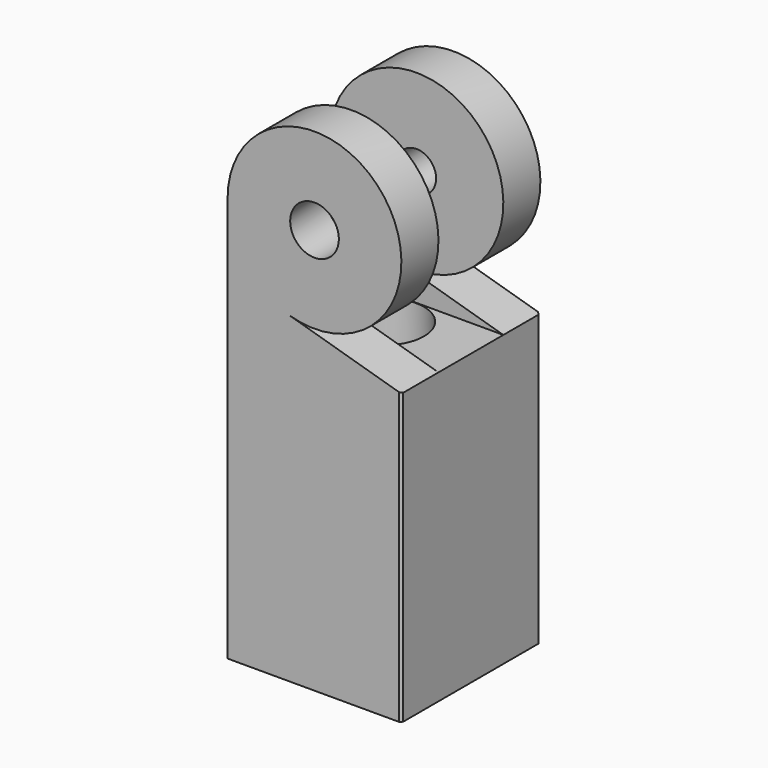
from build123d import *

# Parameters (mm, degrees)
F1_DEPTH       = 25
F3_D           = 3.7
F3_CBORE_D     = 6.9
F3_CBORE_DEPTH = 4
F5_DEPTH       = 4
F7_DEPTH       = 4
F9_D           = 4.2
F9_DEPTH       = 4
F11_D          = 3.4
F11_DEPTH      = 4
F12_SIZE       = 0.2


with BuildPart() as f1:
    # F0 (on Top) → F1 (new body)
    with BuildSketch(Plane.XY):
        Polygon((7.5, -7.5), (7.5, 0), (7.5, 7.5), (-7.5, 7.5), (-7.5, -7.5), align=None)
    extrude(amount=F1_DEPTH)

    # F3 (through all)
    with Locations(Plane.XY.offset(25)):
        with Locations((0, 0)):
            CounterBoreHole(F3_D / 2, F3_CBORE_D / 2, F3_CBORE_DEPTH)

    # F4 (on face) → F5 (join)
    with BuildSketch(Plane(origin=(0, 7.5, 0), x_dir=(-1, 0, 0), z_dir=(0, 1, 0))):
        with BuildLine():
            Line((-7.5, 25), (7.5, 25))
            Line((7.5, 25), (7.5, 35))
            ThreePointArc((7.5, 35), (6, 30.5), (2.1, 27.8))
            Line((2.1, 27.8), (-7.5, 25))
        make_face()
        with BuildLine():
            ThreePointArc((2.1, 27.8), (6, 30.5), (7.5, 35))
            ThreePointArc((7.5, 35), (-6, 39.5), (2.1, 27.8))
        make_face()
    extrude(amount=-F5_DEPTH)

    # F6 (on face) → F7 (join)
    with BuildSketch(Plane.XZ.offset(7.5)):
        with BuildLine():
            ThreePointArc((7.5, 35), (0, 42.5), (-7.5, 35))
            ThreePointArc((-7.5, 35), (-6, 30.5), (-2.1, 27.8))
            ThreePointArc((-2.1, 27.8), (4.5, 29), (7.5, 35))
        make_face()
        with BuildLine():
            Line((-7.5, 35), (-7.5, 25))
            Line((-7.5, 25), (7.5, 25))
            Line((7.5, 25), (-2.1, 27.8))
            ThreePointArc((-2.1, 27.8), (-6, 30.5), (-7.5, 35))
        make_face()
    extrude(amount=-F7_DEPTH)

    # F9
    with Locations(Plane.XZ.offset(7.5)):
        with Locations((0, 35)):
            Hole(F9_D / 2, depth=F9_DEPTH)

    # F11
    with Locations(Plane(origin=(0, 7.5, 0), x_dir=(-1, 0, 0), z_dir=(0, 1, 0))):
        with Locations((0, 35)):
            Hole(F11_D / 2, depth=F11_DEPTH)

    # F12
    f12_edges = [f1.edges().sort_by_distance(p)[0] for p in [
        (7.5, -7.5, 12.5),
        (7.5, 7.5, 12.5),
    ]]
    chamfer(f12_edges, length=F12_SIZE)


solid = f1.part
